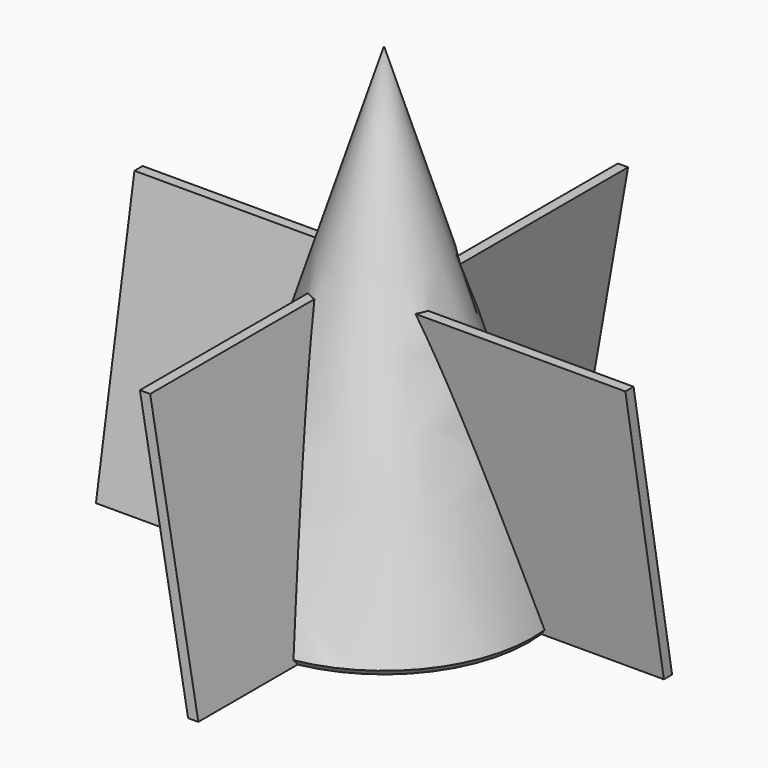
from build123d import *

# Parameters (mm, degrees)
CHAMFER_SIZE          = 0.4
PAD001_DEPTH          = 19.5
POLARPATTERN001_COUNT = 4


with BuildPart() as part:
    # Sketch002 → Revolution (revolve)
    with BuildSketch(Plane.YZ):
        Polygon((0, 35), (-11, 0), (0, 0), align=None)
    revolve(axis=Axis((0, 0, 0), (0, 0, 1)))

    # Chamfer
    chamfer_edges = [part.edges().sort_by_distance(p)[0] for p in [
        (0, 11, 0),
    ]]
    chamfer(chamfer_edges, length=CHAMFER_SIZE)

    # Sketch005 → Pad001 (new body)
    with BuildSketch(Plane.YZ):
        Polygon((1.25, 0), (-2.27654, 20), (-1.52654, 20), (2, 0), align=None)
    pad001 = extrude(amount=PAD001_DEPTH)

    # PolarPattern001: Pad001 ×4 about axis
    polarpattern001_axis = Axis((0, 0, 0), (0, 0, 1))
    for i in range(1, POLARPATTERN001_COUNT):
        add(pad001.rotate(polarpattern001_axis, i * 360 / POLARPATTERN001_COUNT))


solid = part.part
